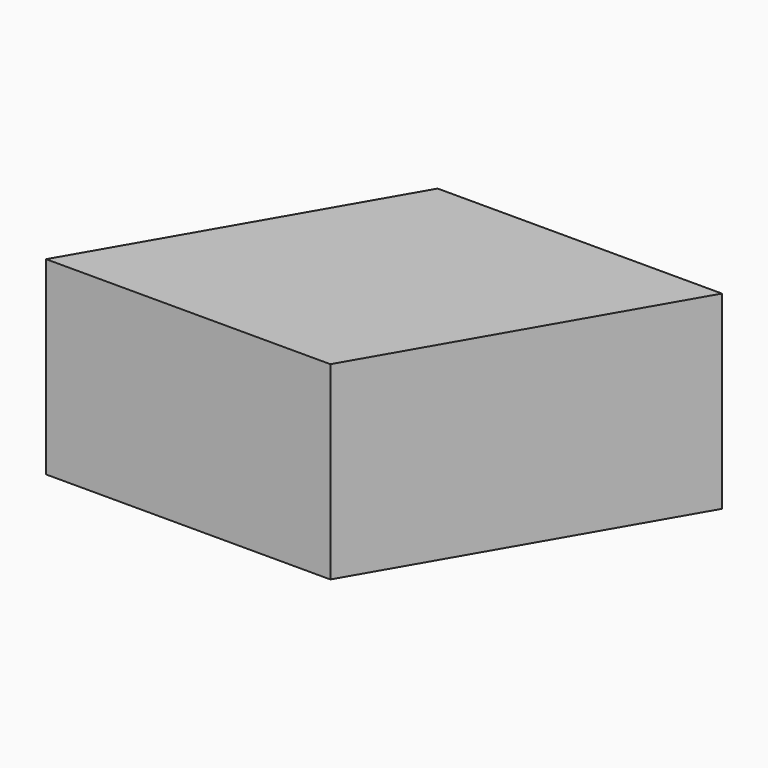
from build123d import *

# Parameters (mm, degrees)
PAD_DEPTH = 40


with BuildPart() as part:
    # Sketch → Pad (new body)
    with BuildSketch(Plane.XY):
        Polygon((57.631016, 83.67), (117.631016, 83.67), (82.99, 23.67), (22.99, 23.67), align=None)
    extrude(amount=PAD_DEPTH)


solid = part.part
